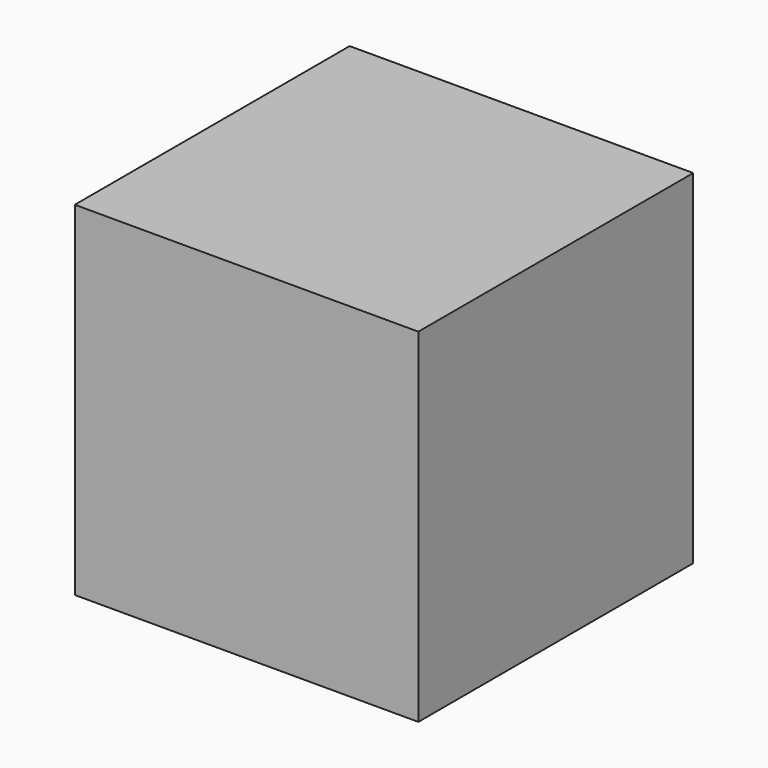
from build123d import *

# Parameters (mm, degrees)
F1_DEPTH = 25
F3_DEPTH = 25


with BuildPart() as f1:
    # F0 (on Front) → F1 (new body, symmetric)
    with BuildSketch(Plane.XZ):
        Polygon((-25, 25), (-25, -25), (-10, -25), (-10, -5), (10, -5), (10, -25), (25, -25), (25, 25), align=None)
    extrude(amount=F1_DEPTH, both=True)

    # F2 (on Right) → F3 (join, symmetric)
    with BuildSketch(Plane.YZ):
        Polygon((25, -25), (25, 25), (-25, 25), (-25, -25), (-10, -25), (-10, -5), (10, -5), (10, -25), align=None)
    extrude(amount=F3_DEPTH, both=True)


solid = f1.part
